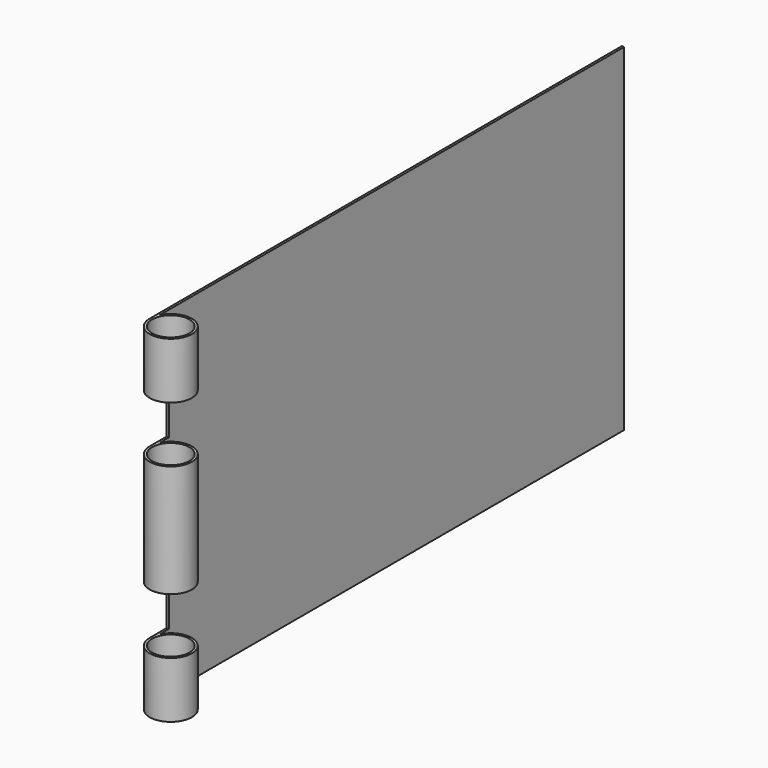
from build123d import *

# Parameters (mm, degrees)
F0_R          = 25.4
F1_DEPTH      = 457.2
F2_W          = 57.15
F2_H          = 76.2
F3_DEPTH      = 28.576
F3_DEPTH_BACK = 28.576


with BuildPart() as f1:
    # F0 (on Top) → F1 (new body)
    with BuildSketch(Plane.XY):
        with BuildLine():
            Line((-28.575, 800.1), (-28.575, 0))
            ThreePointArc((-28.575, 0), (27.7699083992, -6.7351920908), (-25.4, 13.0908603613))
            Line((-25.4, 13.0908603613), (-25.4, 800.1))
            Line((-25.4, 800.1), (-28.575, 800.1))
        make_face()
        Circle(F0_R, mode=Mode.SUBTRACT)
    extrude(amount=F1_DEPTH)

    # F2 (on Right) → F3 (cut, two sides)
    with BuildSketch(Plane.YZ) as f3_sk:
        with Locations((0, 342.9)):
            Rectangle(F2_W, F2_H)
        with Locations((0, 114.3)):
            Rectangle(F2_W, F2_H)
    extrude(amount=-F3_DEPTH, mode=Mode.SUBTRACT)
    extrude(f3_sk.sketch, amount=F3_DEPTH_BACK, mode=Mode.SUBTRACT)


solid = f1.part
